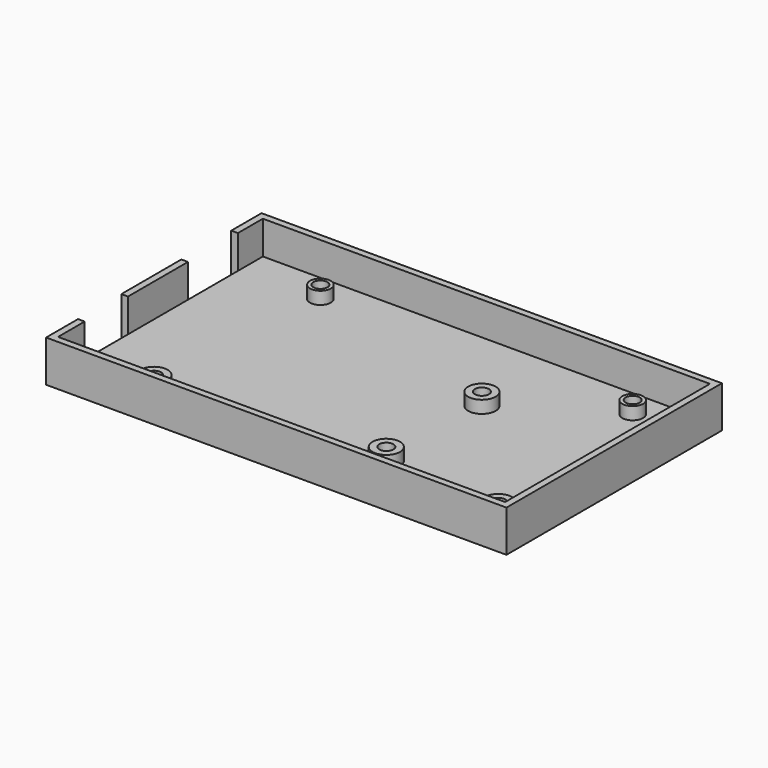
from build123d import *

# Parameters (mm, degrees)
SKETCH_W      = 107.45
SKETCH_H      = 61.527006
SKETCH_R      = 1.7
PAD_DEPTH     = 2
SKETCH001_R   = 3.3
SKETCH001_R_2 = 1.7
SKETCH001_R_3 = 2.5
PAD001_DEPTH  = 3
SKETCH002_W   = 1.6
SKETCH002_H   = 18.027006
PAD002_DEPTH  = 10


with BuildPart() as part:
    # Sketch → Pad (new body)
    with BuildSketch(Plane.XY):
        Rectangle(SKETCH_W, SKETCH_H)
        with Locations((46.725, -24.063503)):
            Circle(SKETCH_R, mode=Mode.SUBTRACT)
        with Locations((-36.025, -24.063503)):
            Circle(SKETCH_R, mode=Mode.SUBTRACT)
        with Locations((16.29071, -19.66845)):
            Circle(SKETCH_R, mode=Mode.SUBTRACT)
        with Locations((-34.537088, 24.063503)):
            Circle(SKETCH_R, mode=Mode.SUBTRACT)
        with Locations((40.512912, 24.063503)):
            Circle(SKETCH_R, mode=Mode.SUBTRACT)
        with Locations((16.29071, 9.045682)):
            Circle(SKETCH_R, mode=Mode.SUBTRACT)
    extrude(amount=PAD_DEPTH)

    # Sketch001 → Pad001 (join)
    with BuildSketch(Plane.XY.offset(2)):
        with Locations((16.29071, 9.045682)):
            Circle(SKETCH001_R)
        with Locations((16.29071, 9.045682)):
            Circle(SKETCH001_R_2, mode=Mode.SUBTRACT)
        with Locations((40.512912, 24.063503)):
            Circle(SKETCH001_R_3)
        with Locations((40.512912, 24.063503)):
            Circle(SKETCH001_R_2, mode=Mode.SUBTRACT)
        with Locations((46.725, -24.063503)):
            Circle(SKETCH001_R)
        with Locations((46.725, -24.063503)):
            Circle(SKETCH001_R_2, mode=Mode.SUBTRACT)
        with Locations((16.29071, -19.66845)):
            Circle(SKETCH001_R)
        with Locations((16.29071, -19.66845)):
            Circle(SKETCH001_R_2, mode=Mode.SUBTRACT)
        with Locations((-36.025, -24.063503)):
            Circle(SKETCH001_R)
        with Locations((-36.025, -24.063503)):
            Circle(SKETCH001_R_2, mode=Mode.SUBTRACT)
        with Locations((-34.537088, 24.063503)):
            Circle(SKETCH001_R_3)
        with Locations((-34.537088, 24.063503)):
            Circle(SKETCH001_R_2, mode=Mode.SUBTRACT)
    extrude(amount=PAD001_DEPTH)

    # Sketch002 → Pad002 (join)
    with BuildSketch(Plane.XY):
        Polygon((-53.725, 30.763503), (53.725, 30.763503), (53.725, -30.763503), (-53.725, -30.763503), (-53.725, -22.763503), (-55.325, -22.763503), (-55.325, -32.363503), (55.325, -32.363503), (55.325, 32.363503), (-55.325, 32.363503), (-55.325, 23.263503), (-53.725, 23.263503), align=None)
        with Locations((-54.525, -0.75)):
            Rectangle(SKETCH002_W, SKETCH002_H)
    extrude(amount=PAD002_DEPTH)


solid = part.part
